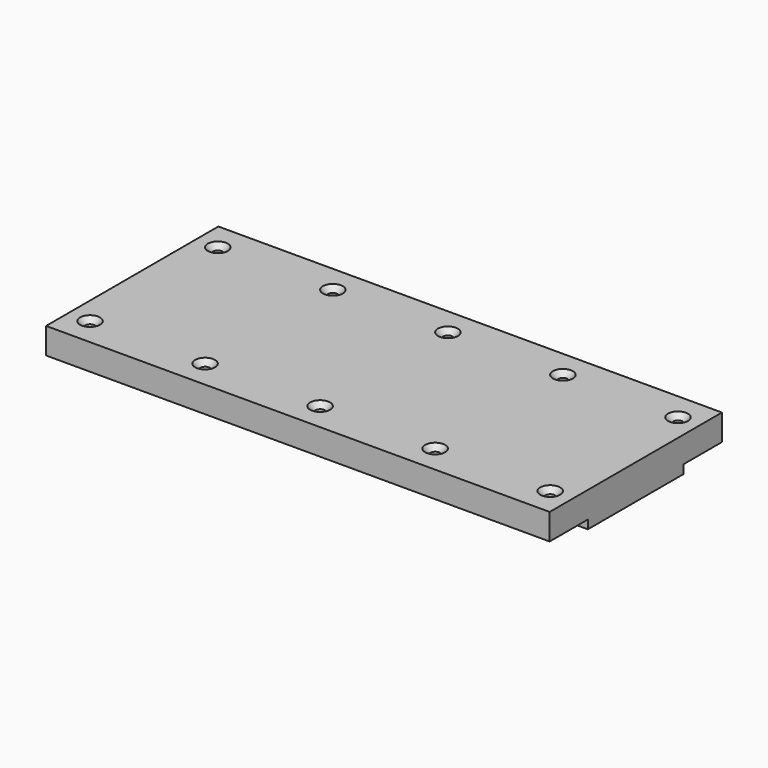
from build123d import *

# Parameters (mm, degrees)
F0_W     = 580
F0_H     = 248
F0_R     = 5.5
F1_DEPTH = 40
F2_W     = 55
F2_H     = 10
F3_DEPTH = 580.001
F4_SIZE2 = 6
F4_SIZE  = 6


with BuildPart() as f1:
    # F0 (on Top) → F1 (new body)
    with BuildSketch(Plane.XY):
        Rectangle(F0_W, F0_H)
        with Locations((-265, -92)):
            Circle(F0_R, mode=Mode.SUBTRACT)
        with Locations((-132.5, -92)):
            Circle(F0_R, mode=Mode.SUBTRACT)
        with Locations((0, -92)):
            Circle(F0_R, mode=Mode.SUBTRACT)
        with Locations((132.5, -92)):
            Circle(F0_R, mode=Mode.SUBTRACT)
        with Locations((265, -92)):
            Circle(F0_R, mode=Mode.SUBTRACT)
        with Locations((-265, 92)):
            Circle(F0_R, mode=Mode.SUBTRACT)
        with Locations((-132.5, 92)):
            Circle(F0_R, mode=Mode.SUBTRACT)
        with Locations((0, 92)):
            Circle(F0_R, mode=Mode.SUBTRACT)
        with Locations((132.5, 92)):
            Circle(F0_R, mode=Mode.SUBTRACT)
        with Locations((265, 92)):
            Circle(F0_R, mode=Mode.SUBTRACT)
    extrude(amount=F1_DEPTH)

    # F2 (on face) → F3 (cut, through all)
    with BuildSketch(Plane.YZ.offset(290)):
        with Locations((96.5, 5)):
            Rectangle(F2_W, F2_H)
        with Locations((-96.5, 5)):
            Rectangle(F2_W, F2_H)
    extrude(amount=-F3_DEPTH, mode=Mode.SUBTRACT)

    # F4
    f4_edges = [f1.edges().sort_by_distance(p)[0] for p in [
        (259.5, 92, 40),
        (127, 92, 40),
        (259.5, -92, 40),
        (127, -92, 40),
        (-5.5, -92, 40),
        (-5.5, 92, 40),
        (-138, -92, 40),
        (-138, 92, 40),
        (-270.5, 92, 40),
        (-270.5, -92, 40),
    ]]
    chamfer(f4_edges, length=F4_SIZE, length2=F4_SIZE2)


solid = f1.part
